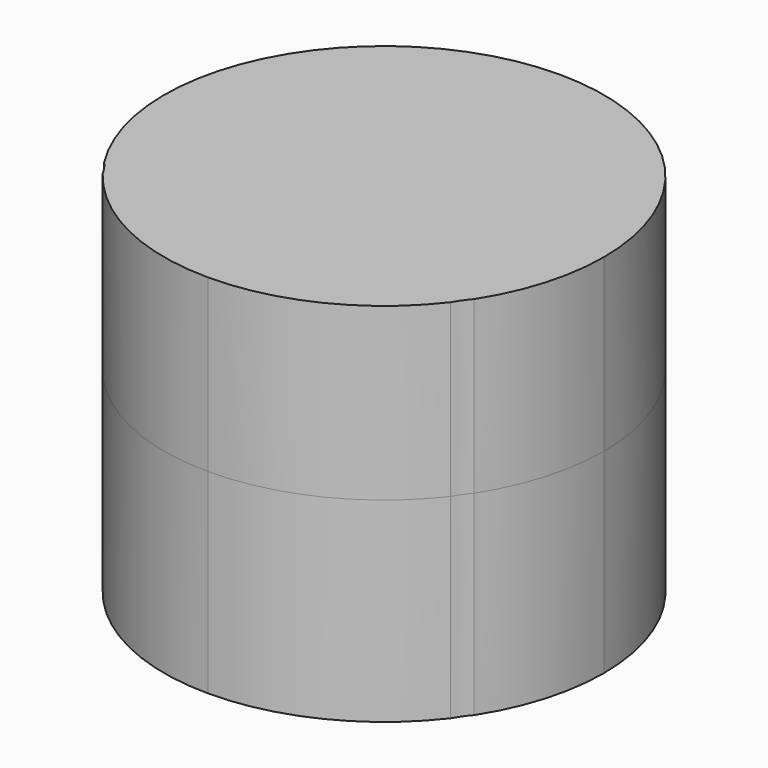
from build123d import *

# Parameters (mm, degrees)
F1_DEPTH      = 11.1125
F1_DEPTH_BACK = 12.7


with BuildPart() as f1:
    # F0 (on Top) → F1 (new body, two sides)
    with BuildSketch(Plane.XY) as f1_sk:
        with BuildLine():
            Line((-12.0305994716, 122.4680335018), (0, 122.4680335018))
            Line((0, 122.4680335018), (0, 130.175))
            Line((0, 130.175), (0, 144.4625))
            ThreePointArc((0, 144.4625), (-12.5348701647, 137.031361003), (-12.0305994716, 122.4680335018))
        make_face()
        with BuildLine():
            Line((0, 122.4680335018), (12.0305994716, 122.4680335018))
            ThreePointArc((12.0305994716, 122.4680335018), (13.7116710543, 126.1596876647), (14.2875, 130.175))
            ThreePointArc((14.2875, 130.175), (10.1027881362, 140.2777881362), (0, 144.4625))
            Line((0, 144.4625), (0, 130.175))
            Line((0, 130.175), (0, 122.4680335018))
        make_face()
        with BuildLine():
            Line((0, 121.4475619108), (11.3121386417, 121.4475619108))
            add(Edge.make_bspline(
                [(11.3121386417, 121.4475619108), (11.5908004817, 121.9554496525), (11.8104700009, 122.2120245631), (12.0305994716, 122.4680335018)],
                knots=[0.8159941702, 0.8159941702, 0.8159941702, 0.8159941702, 1, 1, 1, 1], degree=3))
            Line((12.0305994716, 122.4680335018), (0, 122.4680335018))
            Line((0, 122.4680335018), (0, 121.4475619108))
        make_face()
        with BuildLine():
            Line((0, 121.4475619108), (0, 115.8875))
            ThreePointArc((0, 115.8875), (6.3023560892, 117.3526381281), (11.3121386417, 121.4475619108))
            Line((11.3121386417, 121.4475619108), (0, 121.4475619108))
        make_face()
        with BuildLine():
            Line((-11.3121386417, 121.4475619108), (0, 121.4475619108))
            Line((0, 121.4475619108), (0, 122.4680335018))
            Line((0, 122.4680335018), (-12.0305994716, 122.4680335018))
            add(Edge.make_bspline(
                [(-11.3121386417, 121.4475619108), (-11.5918742826, 121.9736892928), (-11.8112368771, 122.2208613973), (-12.0305994716, 122.4680335018)],
                knots=[0.8012530317, 0.8012530317, 0.8012530317, 0.8012530317, 1, 1, 1, 1], degree=3))
        make_face()
        with BuildLine():
            ThreePointArc((-11.3121386417, 121.4475619108), (-6.3023560892, 117.3526381281), (0, 115.8875))
            Line((0, 115.8875), (0, 121.4475619108))
            Line((0, 121.4475619108), (-11.3121386417, 121.4475619108))
        make_face()
    extrude(amount=F1_DEPTH)
    extrude(f1_sk.sketch, amount=-F1_DEPTH_BACK)


solid = f1.part
